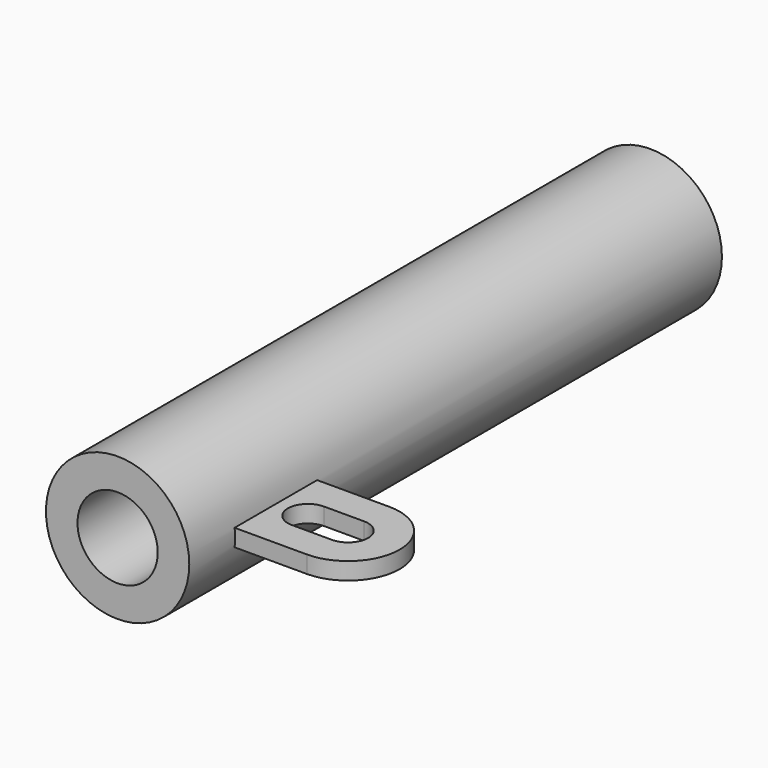
from build123d import *

# Parameters (mm, degrees)
F0_R     = 12.5
F0_R_2   = 7
F1_DEPTH = 58.075
F3_DEPTH = 1.5


with BuildPart() as f1:
    # F0 (on Front) → F1 (new body, symmetric)
    with BuildSketch(Plane.XZ):
        Circle(F0_R)
        Circle(F0_R_2, mode=Mode.SUBTRACT)
    extrude(amount=F1_DEPTH, both=True)

    # F2 (on Top) → F3 (join, symmetric)
    with BuildSketch(Plane.XY):
        with BuildLine():
            Line((10, -30.075), (10, -48.075))
            Line((10, -48.075), (25, -48.075))
            ThreePointArc((25, -48.075), (34, -39.075), (25, -30.075))
            Line((25, -30.075), (10, -30.075))
        make_face()
        with BuildLine():
            Line((18, -35.575), (25, -35.575))
            ThreePointArc((25, -35.575), (28.5, -39.075), (25, -42.575))
            Line((25, -42.575), (18, -42.575))
            ThreePointArc((18, -42.575), (14.5, -39.075), (18, -35.575))
        make_face(mode=Mode.SUBTRACT)
    extrude(amount=F3_DEPTH, both=True)


solid = f1.part
